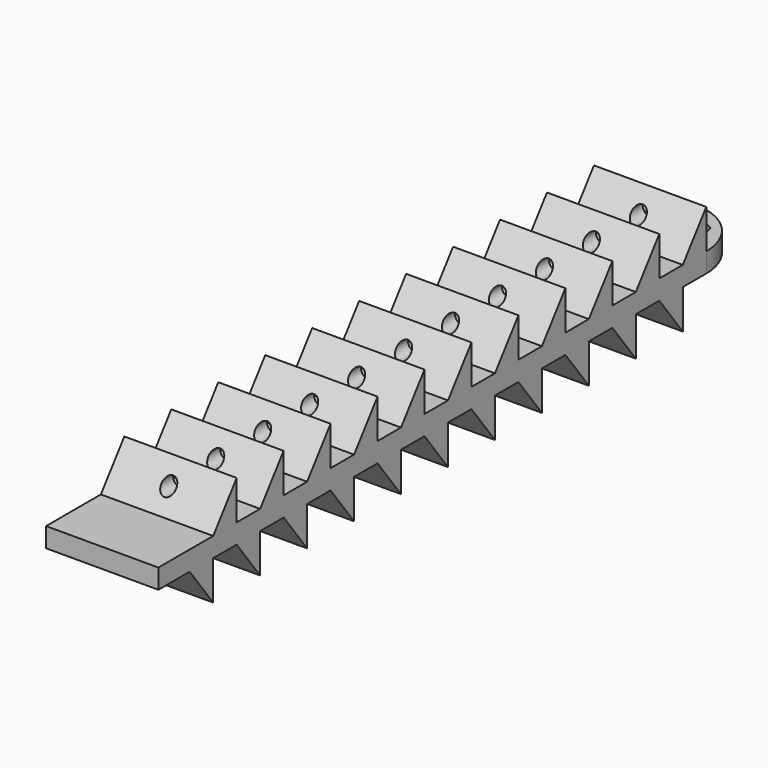
from build123d import *

# Parameters (mm, degrees)
F0_R     = 0.75
F0_R_2   = 1.5
F1_DEPTH = 1
F3_DEPTH = 11.48
F4_R     = 0.75
F5_DEPTH = 70
F6_R     = 0.75
F7_DEPTH = 70


with BuildPart() as f1:
    # F0 (on Top) → F1 (new body, symmetric)
    with BuildSketch(Plane.XY):
        with BuildLine():
            Line((-5.74, -35), (5.74, -35))
            Line((5.74, -35), (5.74, 35))
            ThreePointArc((5.74, 35), (0, 40.74), (-5.74, 35))
            Line((-5.74, 35), (-5.74, -35))
        make_face()
        with Locations((-2.87, 37.87)):
            Circle(F0_R, mode=Mode.SUBTRACT)
        with Locations((0, 37.87)):
            Circle(F0_R_2, mode=Mode.SUBTRACT)
        with Locations((2.87, 37.87)):
            Circle(F0_R, mode=Mode.SUBTRACT)
    extrude(amount=F1_DEPTH, both=True)

    # F2 (on face) → F3 (join)
    with BuildSketch(Plane.YZ.offset(5.74)):
        Polygon((32, 1), (35, 1), (35, 5), align=None)
        Polygon((32, -5), (32, -1), (29, -1), align=None)
        Polygon((26, 1), (29, 1), (29, 5), align=None)
        Polygon((26, -5), (26, -1), (23, -1), align=None)
        Polygon((20, 1), (23, 1), (23, 5), align=None)
        Polygon((20, -5), (20, -1), (17, -1), align=None)
        Polygon((14, 1), (17, 1), (17, 5), align=None)
        Polygon((14, -5), (14, -1), (11, -1), align=None)
        Polygon((8, 1), (11, 1), (11, 5), align=None)
        Polygon((8, -5), (8, -1), (5, -1), align=None)
        Polygon((2, 1), (5, 1), (5, 5), align=None)
        Polygon((2, -5), (2, -1), (-1, -1), align=None)
        Polygon((-4, 1), (-1, 1), (-1, 5), align=None)
        Polygon((-4, -5), (-4, -1), (-7, -1), align=None)
        Polygon((-10, 1), (-7, 1), (-7, 5), align=None)
        Polygon((-10, -5), (-10, -1), (-13, -1), align=None)
        Polygon((-16, 1), (-13, 1), (-13, 5), align=None)
        Polygon((-16, -5), (-16, -1), (-19, -1), align=None)
        Polygon((-22, 1), (-19, 1), (-19, 5), align=None)
        Polygon((-22, -5), (-22, -1), (-25, -1), align=None)
        Polygon((-28, 1), (-25, 1), (-25, 5), align=None)
        Polygon((-28, -5), (-28, -1), (-31, -1), align=None)
    extrude(amount=-F3_DEPTH)

    # F4 (on face) → F5 (cut)
    with BuildSketch(Plane(origin=(0, 35, 0), x_dir=(-1, 0, 0), z_dir=(0, 1, 0))):
        with Locations((0, 3)):
            Circle(F4_R)
    extrude(amount=-F5_DEPTH, mode=Mode.SUBTRACT)

    # F6 (on face) → F7 (cut)
    with BuildSketch(Plane(origin=(0, 32, 0), x_dir=(-1, 0, 0), z_dir=(0, 1, 0))):
        with Locations((0, -3)):
            Circle(F6_R)
    extrude(amount=-F7_DEPTH, mode=Mode.SUBTRACT)


solid = f1.part
